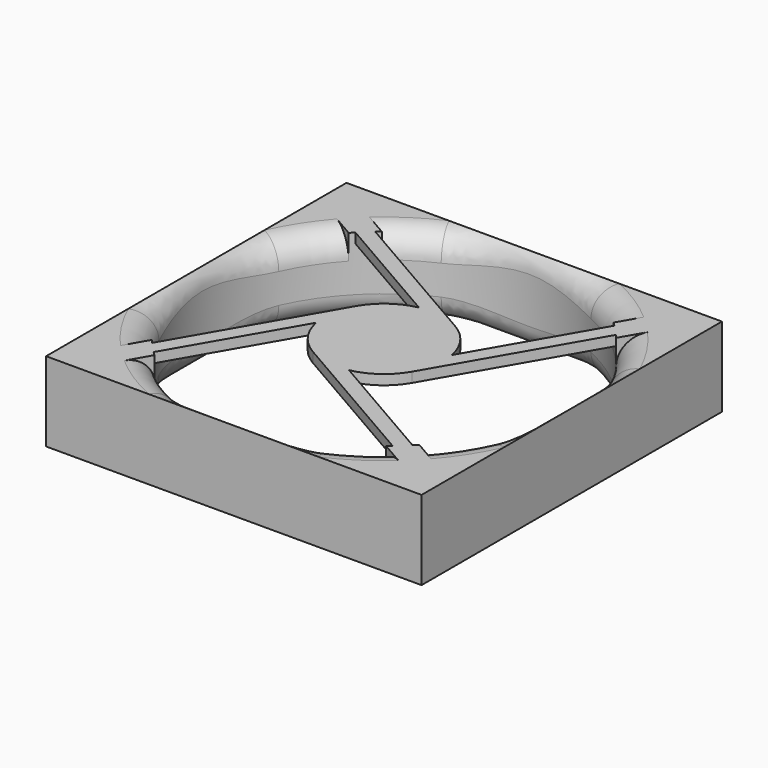
from build123d import *

# Parameters (mm, degrees)
SKETCH015_W        = 120
SKETCH015_H        = 120
PAD010_DEPTH       = 25.4
SKETCH016_R        = 57.94375
POCKET005_DEPTH    = 25.4
FILLET001_R        = 7.9375
PAD011_DEPTH       = 12.7
PAD012_DEPTH       = 3.175
SKETCH017_R        = 19.05
PAD013_DEPTH       = 3.175
POLARPATTERN_COUNT = 4
SKETCH021_R        = 12.7
PAD015_DEPTH       = 3.175


with BuildPart() as part:
    # Sketch015 → Pad010 (new body)
    with BuildSketch(Plane.XY):
        Rectangle(SKETCH015_W, SKETCH015_H)
    extrude(amount=PAD010_DEPTH)

    # Sketch016 (on DatumPlane) → Pocket005 (cut)
    with BuildSketch(Plane.XY.offset(25.4)):
        Circle(SKETCH016_R)
    extrude(amount=-POCKET005_DEPTH, mode=Mode.SUBTRACT)

    # Fillet001
    fillet001_edges = [part.edges().sort_by_distance(p)[0] for p in [
        (-57.94375, 0, 25.4),
        (-57.94375, 0, 0),
    ]]
    fillet(fillet001_edges, radius=FILLET001_R)

    # Sketch019 (on DatumPlane) → Pad011 (join)
    with BuildSketch(Plane.XY.offset(25.4)):
        with BuildLine():
            ThreePointArc((-36.6239956841, 44.9016826432), (-39.7410737834, 42.1678220756), (-42.6546789902, 39.21806375))
            Line((-49.6772272907, 43.2725339017), (-42.6546789902, 39.21806375))
            ThreePointArc((-43.9143580937, 49.1107753429), (-46.8867516413, 46.2814392828), (-49.6772272907, 43.2725339017))
            Line((-43.9143580937, 49.1107753429), (-36.6239956841, 44.9016826432))
        make_face()
    pad011 = extrude(amount=-PAD011_DEPTH)

    # Sketch018 (on DatumPlane) → Pad012 (join)
    with BuildSketch(Plane.XY.offset(25.4)):
        with BuildLine():
            Line((9.5249999999, 16.4977839421), (-37.86626236, 43.8591420225))
            ThreePointArc((-37.86626236, 43.8591420225), (-39.7135200257, 42.1937731334), (-41.4876095418, 40.4506664787))
            Line((-3.7685083737, 18.673533266), (-41.4876095418, 40.4506664787))
            ThreePointArc((9.5249999999, 16.4977839421), (3.0769742021, 18.7998598335), (-3.7685083737, 18.673533266))
        make_face()
    pad012 = extrude(amount=-PAD012_DEPTH)

    # Sketch017 (on DatumPlane) → Pad013 (join)
    with BuildSketch(Plane.XY.offset(25.4)):
        Circle(SKETCH017_R)
    extrude(amount=-PAD013_DEPTH)

    # PolarPattern: Pad011, Pad012 ×4 about axis
    polarpattern_axis = Axis((0, 0, 25.4), (0, 0, 1))
    for i in range(1, POLARPATTERN_COUNT):
        add(pad011.rotate(polarpattern_axis, i * 360 / POLARPATTERN_COUNT))
        add(pad012.rotate(polarpattern_axis, i * 360 / POLARPATTERN_COUNT))

    # Sketch021 (on DatumPlane) → Pad015 (join)
    with BuildSketch(Plane(origin=(0, 0, 22.225), x_dir=(-1, 0, 0), z_dir=(0, 0, -1))):
        Circle(SKETCH021_R)
    extrude(amount=PAD015_DEPTH)


solid = part.part
